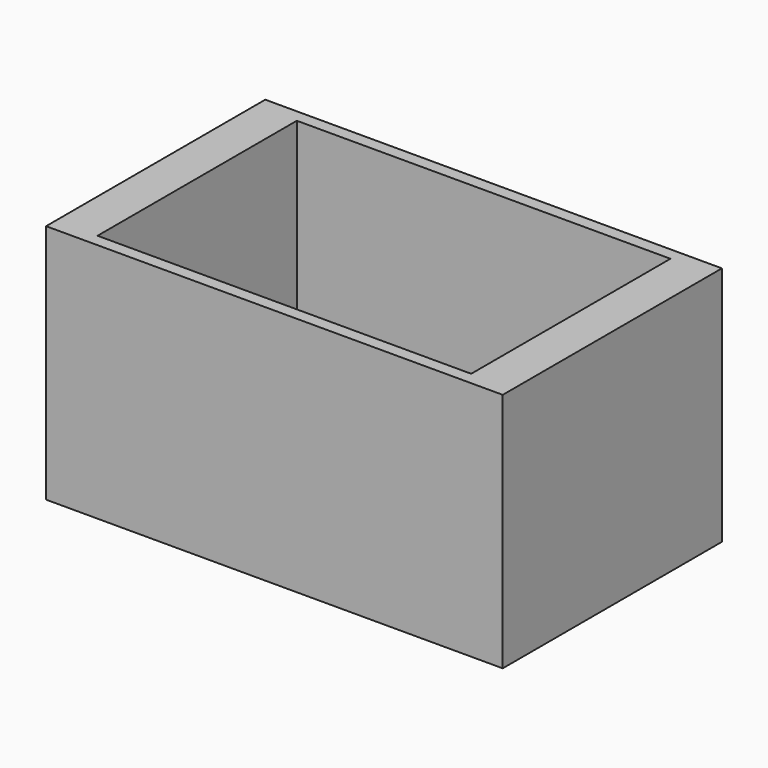
from build123d import *

# Parameters (mm, degrees)
F0_W     = 90
F0_H     = 60
F1_DEPTH = 58
F2_W     = 90
F2_H     = 60
F3_DEPTH = 55
F4_DEPTH = 55


with BuildPart() as f1:
    # F0 (on Top) → F1 (new body)
    with BuildSketch(Plane.XY):
        Polygon((55, 33), (48, 33), (-48, 33), (-55, 33), (-55, -33), (-48, -33), (48, -33), (55, -33), align=None)
        Rectangle(F0_W, F0_H, mode=Mode.SUBTRACT)
        Rectangle(F0_W, F0_H)
    extrude(amount=F1_DEPTH)

    # F2 (on face) → F3 (join)
    with BuildSketch(Plane.XY.offset(58)):
        Rectangle(F2_W, F2_H)
    extrude(amount=-F3_DEPTH)

    # F2 (on face) → F4 (cut)
    with BuildSketch(Plane.XY.offset(58)):
        Rectangle(F2_W, F2_H)
    extrude(amount=-F4_DEPTH, mode=Mode.SUBTRACT)


solid = f1.part
